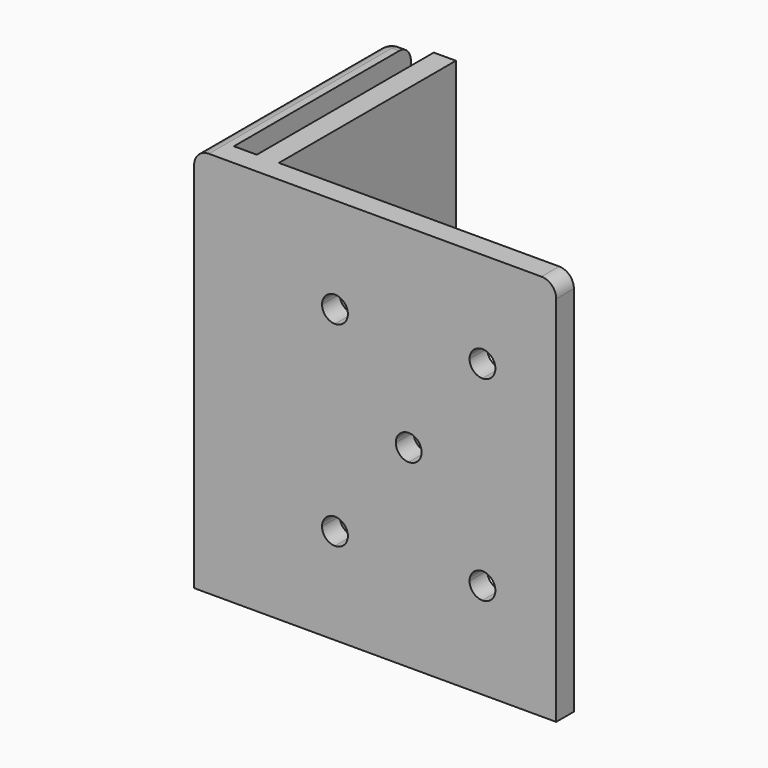
from build123d import *

# Parameters (mm, degrees)
F0_W     = 3
F0_H     = 30
F1_DEPTH = 52.5
F3_DEPTH = 25
F5_DEPTH = 25
F6_R     = 2


with BuildPart() as f1:
    # F0 (on Top) → F1 (new body)
    with BuildSketch(Plane.XY):
        with Locations((-1.5, 15)):
            Rectangle(F0_W, F0_H)
        with Locations((-7.6, 15)):
            Rectangle(F0_W, F0_H)
        Polygon((40, 0), (0, 0), (-3, 0), (-6.1, 0), (-9.1, 0), (-9.1, -2.9952730983), (40, -3), align=None)
    extrude(amount=F1_DEPTH)

    # F2 (on face) → F3 (cut)
    with BuildSketch(Plane(origin=(-9.1, 0, 0), x_dir=(0, -1, 0), z_dir=(-1, 0, 0))):
        with BuildLine():
            Line((-13.5023634508, 37.5), (-13.5023634508, 39.25))
            ThreePointArc((-13.5023634508, 39.25), (-15.2523634508, 37.5), (-13.5023634508, 35.75))
            Line((-13.5023634508, 35.75), (-13.5023634508, 37.5))
        make_face()
        with BuildLine():
            ThreePointArc((-11.7523634508, 37.5), (-12.2649265837, 38.7374368671), (-13.5023634508, 39.25))
            Line((-13.5023634508, 39.25), (-13.5023634508, 37.5))
            Line((-13.5023634508, 37.5), (-13.5023634508, 35.75))
            ThreePointArc((-13.5023634508, 35.75), (-12.2649265837, 36.2625631329), (-11.7523634508, 37.5))
        make_face()
        with BuildLine():
            Line((-13.5023634508, 15), (-13.5023634508, 13.25))
            ThreePointArc((-13.5023634508, 13.25), (-12.2649265837, 13.7625631329), (-11.7523634508, 15))
            ThreePointArc((-11.7523634508, 15), (-12.2649265837, 16.2374368671), (-13.5023634508, 16.75))
            Line((-13.5023634508, 16.75), (-13.5023634508, 15))
        make_face()
        with BuildLine():
            ThreePointArc((-13.5023634508, 16.75), (-15.2523634508, 15), (-13.5023634508, 13.25))
            Line((-13.5023634508, 13.25), (-13.5023634508, 15))
            Line((-13.5023634508, 15), (-13.5023634508, 16.75))
        make_face()
    extrude(amount=-F3_DEPTH, mode=Mode.SUBTRACT)

    # F4 (on face) → F5 (cut)
    with BuildSketch(Plane(origin=(0, 0, 0), x_dir=(-1, 0, 0), z_dir=(0, 1, 0))):
        with BuildLine():
            ThreePointArc((-30, 37.75), (-28.7625631329, 38.2625631329), (-28.25, 39.5))
            Line((-28.25, 39.5), (-30, 39.5))
            Line((-30, 39.5), (-30, 37.75))
        make_face()
        with BuildLine():
            ThreePointArc((-28.25, 39.5), (-28.7625631329, 40.7374368671), (-30, 41.25))
            Line((-30, 41.25), (-30, 39.5))
            Line((-30, 39.5), (-28.25, 39.5))
        make_face()
        with BuildLine():
            Line((-30, 39.5), (-30, 41.25))
            ThreePointArc((-30, 41.25), (-31.2374368671, 40.7374368671), (-31.75, 39.5))
            Line((-31.75, 39.5), (-30, 39.5))
        make_face()
        with BuildLine():
            Line((-30, 37.75), (-30, 39.5))
            Line((-30, 39.5), (-31.75, 39.5))
            ThreePointArc((-31.75, 39.5), (-31.2374368671, 38.2625631329), (-30, 37.75))
        make_face()
        with BuildLine():
            Line((-10, 37.75), (-10, 39.5))
            Line((-10, 39.5), (-11.75, 39.5))
            ThreePointArc((-11.75, 39.5), (-11.2374368671, 38.2625631329), (-10, 37.75))
        make_face()
        with BuildLine():
            ThreePointArc((-10, 37.75), (-8.7625631329, 38.2625631329), (-8.25, 39.5))
            Line((-8.25, 39.5), (-10, 39.5))
            Line((-10, 39.5), (-10, 37.75))
        make_face()
        with BuildLine():
            ThreePointArc((-8.25, 39.5), (-8.7625631329, 40.7374368671), (-10, 41.25))
            Line((-10, 41.25), (-10, 39.5))
            Line((-10, 39.5), (-8.25, 39.5))
        make_face()
        with BuildLine():
            Line((-10, 39.5), (-10, 41.25))
            ThreePointArc((-10, 41.25), (-11.2374368671, 40.7374368671), (-11.75, 39.5))
            Line((-11.75, 39.5), (-10, 39.5))
        make_face()
        with BuildLine():
            Line((-10, 13), (-10, 14.75))
            ThreePointArc((-10, 14.75), (-11.2374368671, 14.2374368671), (-11.75, 13))
            Line((-11.75, 13), (-10, 13))
        make_face()
        with BuildLine():
            ThreePointArc((-8.25, 13), (-8.7625631329, 14.2374368671), (-10, 14.75))
            Line((-10, 14.75), (-10, 13))
            Line((-10, 13), (-8.25, 13))
        make_face()
        with BuildLine():
            ThreePointArc((-10, 11.25), (-8.7625631329, 11.7625631329), (-8.25, 13))
            Line((-8.25, 13), (-10, 13))
            Line((-10, 13), (-10, 11.25))
        make_face()
        with BuildLine():
            Line((-10, 11.25), (-10, 13))
            Line((-10, 13), (-11.75, 13))
            ThreePointArc((-11.75, 13), (-11.2374368671, 11.7625631329), (-10, 11.25))
        make_face()
        with BuildLine():
            ThreePointArc((-30, 11.25), (-28.7625631329, 11.7625631329), (-28.25, 13))
            Line((-28.25, 13), (-30, 13))
            Line((-30, 13), (-30, 11.25))
        make_face()
        with BuildLine():
            Line((-30, 13), (-31.75, 13))
            ThreePointArc((-31.75, 13), (-31.2374368671, 11.7625631329), (-30, 11.25))
            Line((-30, 11.25), (-30, 13))
        make_face()
        with BuildLine():
            Line((-30, 13), (-30, 14.75))
            ThreePointArc((-30, 14.75), (-31.2374368671, 14.2374368671), (-31.75, 13))
            Line((-31.75, 13), (-30, 13))
        make_face()
        with BuildLine():
            ThreePointArc((-28.25, 13), (-28.7625631329, 14.2374368671), (-30, 14.75))
            Line((-30, 14.75), (-30, 13))
            Line((-30, 13), (-28.25, 13))
        make_face()
        with BuildLine():
            Line((-20, 24.5), (-20, 26.25))
            Line((-20, 26.25), (-21.75, 26.25))
            ThreePointArc((-21.75, 26.25), (-21.2374368671, 25.0125631329), (-20, 24.5))
        make_face()
        with BuildLine():
            ThreePointArc((-20, 24.5), (-18.7625631329, 25.0125631329), (-18.25, 26.25))
            Line((-18.25, 26.25), (-20, 26.25))
            Line((-20, 26.25), (-20, 24.5))
        make_face()
        with BuildLine():
            ThreePointArc((-18.25, 26.25), (-18.7625631329, 27.4874368671), (-20, 28))
            Line((-20, 28), (-20, 26.25))
            Line((-20, 26.25), (-18.25, 26.25))
        make_face()
        with BuildLine():
            Line((-20, 26.25), (-20, 28))
            ThreePointArc((-20, 28), (-21.2374368671, 27.4874368671), (-21.75, 26.25))
            Line((-21.75, 26.25), (-20, 26.25))
        make_face()
    extrude(amount=-F5_DEPTH, mode=Mode.SUBTRACT)

    # F6
    f6_edges = [f1.edges().sort_by_distance(p)[0] for p in [
        (40, -1.5, 52.5),
        (-9.1, 30, 26.25),
        (-9.1, 13.502363, 52.5),
        (-7.6, 30, 52.5),
    ]]
    fillet(f6_edges, radius=F6_R)


solid = f1.part
